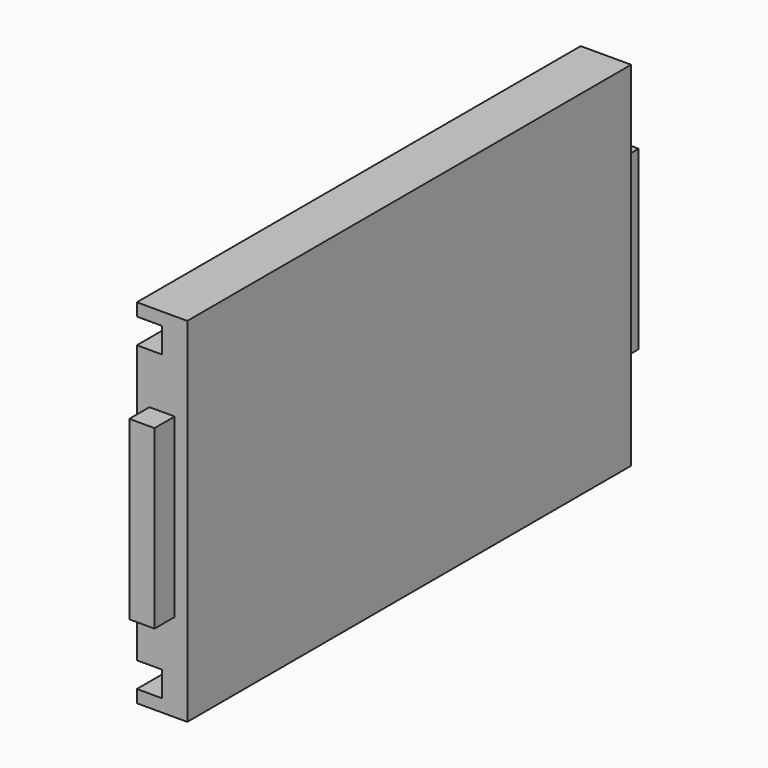
from build123d import *

# Parameters (mm, degrees)
F0_W     = 279.4
F0_H     = 177.8
F1_DEPTH = 25.4
F2_W     = 279.4
F2_H     = 12.7
F3_DEPTH = 12.7
F4_W     = 279.4
F4_H     = 12.7
F5_DEPTH = 12.7
F6_W     = 12.7
F6_H     = 88.9
F7_DEPTH = 12.7
F8_W     = 12.7
F8_H     = 88.9
F9_DEPTH = 12.7


with BuildPart() as f1:
    # F0 (on Right) → F1 (new body)
    with BuildSketch(Plane.YZ):
        with Locations((-139.7, 88.9)):
            Rectangle(F0_W, F0_H)
    extrude(amount=F1_DEPTH)

    # F2 (on face) → F3 (cut)
    with BuildSketch(Plane(origin=(0, 0, 0), x_dir=(0, -1, 0), z_dir=(-1, 0, 0))):
        with Locations((139.7, 12.7)):
            Rectangle(F2_W, F2_H)
    extrude(amount=-F3_DEPTH, mode=Mode.SUBTRACT)

    # F4 (on face) → F5 (cut)
    with BuildSketch(Plane(origin=(0, 0, 0), x_dir=(0, -1, 0), z_dir=(-1, 0, 0))):
        with Locations((139.7, 165.1)):
            Rectangle(F4_W, F4_H)
    extrude(amount=-F5_DEPTH, mode=Mode.SUBTRACT)

    # F6 (on face) → F7 (join)
    with BuildSketch(Plane(origin=(0, 0, 0), x_dir=(-1, 0, 0), z_dir=(0, 1, 0))):
        with Locations((-12.7, 88.9)):
            Rectangle(F6_W, F6_H)
    extrude(amount=F7_DEPTH)

    # F8 (on face) → F9 (join)
    with BuildSketch(Plane.XZ.offset(279.4)):
        with Locations((12.7, 88.9)):
            Rectangle(F8_W, F8_H)
    extrude(amount=F9_DEPTH)


solid = f1.part
